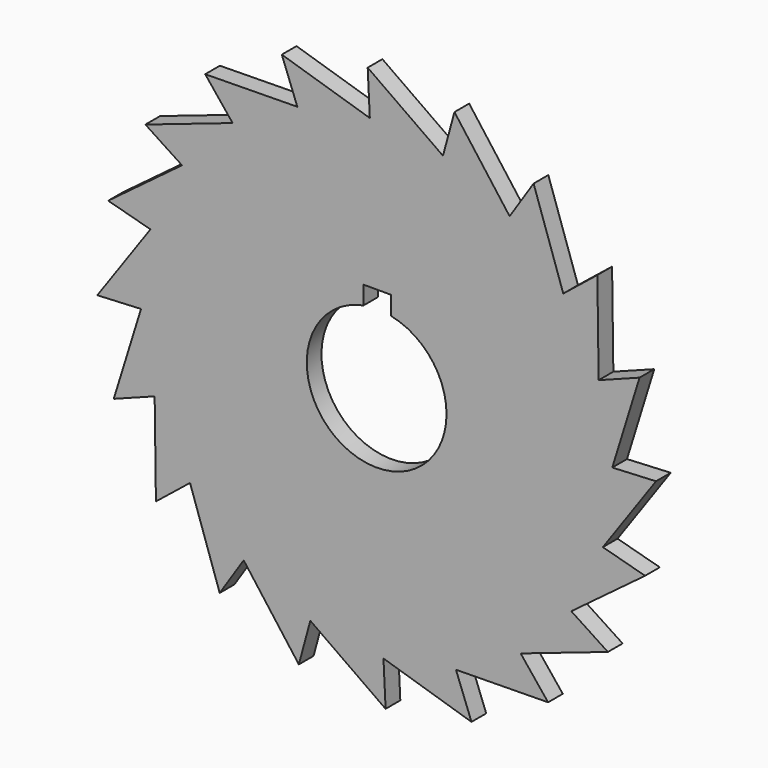
from build123d import *

# Parameters (mm, degrees)
F1_DEPTH = 5


with BuildPart() as f1:
    # F0 (on Front) → F1 (new body)
    with BuildSketch(Plane.XZ):
        Polygon((61.512955, -18.03444), (75.960928, 2.436688), (64.075245, 1.856776), (71.490157, 25.790645), (60.365404, 21.566239), (60.021432, 46.620035), (50.746576, 39.164648), (42.677391, 62.885931), (36.16032, 52.929348), (21.15579, 72.996113), (18.03444, 61.512955), (-2.436688, 75.960928), (-1.856776, 64.075245), (-25.790645, 71.490157), (-21.566239, 60.365404), (-46.620035, 60.021432), (-39.164648, 50.746576), (-62.885931, 42.677391), (-52.929348, 36.16032), (-72.996113, 21.15579), (-61.512955, 18.03444), (-75.960928, -2.436688), (-64.075245, -1.856776), (-71.490157, -25.790645), (-60.365404, -21.566239), (-60.021432, -46.620035), (-50.746576, -39.164648), (-42.677391, -62.885931), (-36.16032, -52.929348), (-21.15579, -72.996113), (-18.03444, -61.512955), (2.436688, -75.960928), (1.856776, -64.075245), (25.790645, -71.490157), (21.566239, -60.365404), (46.620035, -60.021432), (39.164648, -50.746576), (62.885931, -42.677391), (52.929348, -36.16032), (72.996113, -21.15579), align=None)
        with BuildLine():
            ThreePointArc((3.847568, 18.606349), (14.732681, 11.997837), (19, 0))
            ThreePointArc((19, 0), (-12.106443, -14.643566), (-3.572003, 18.661211))
            Line((-3.572003, 18.661211), (-3.572003, 23.642808))
            Line((-3.572003, 23.642808), (3.847568, 23.642808))
            Line((3.847568, 23.642808), (3.847568, 18.606349))
        make_face(mode=Mode.SUBTRACT)
    extrude(amount=F1_DEPTH)


solid = f1.part
